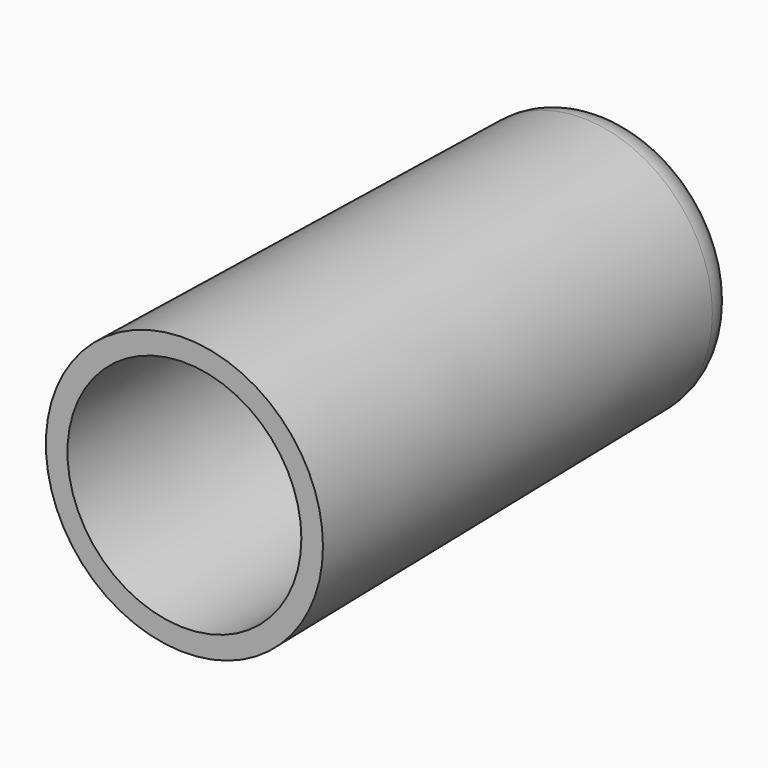
from build123d import *

# Parameters (mm, degrees)
F0_R = 4.572
F2_R = 4.8895
F4_T = -0.762
F5_R = 1.27


with BuildPart() as f3:
    # F0 (on Front) → F3 section 0
    with BuildSketch(Plane.XZ):
        Circle(F0_R)
    # F2 (on offset) → F3 section 1
    with BuildSketch(Plane.XZ.offset(18.796)):
        Circle(F2_R)
    loft()

    # F4
    f4_openings = [f3.faces().sort_by_distance(p)[0] for p in [
        (0, -18.796, 0),
    ]]
    offset(amount=F4_T, openings=f4_openings, kind=Kind.INTERSECTION)

    # F5
    f5_edges = [f3.edges().sort_by_distance(p)[0] for p in [
        (-4.572, 0, 0),
    ]]
    fillet(f5_edges, radius=F5_R)


solid = f3.part
